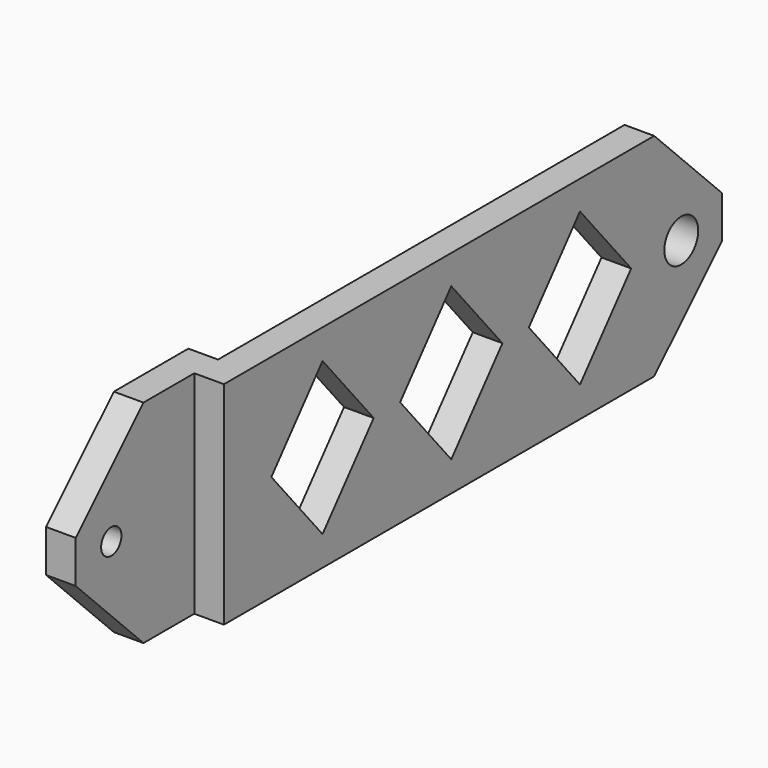
from build123d import *

# Parameters (mm, degrees)
F1_DEPTH = 50
F2_R     = 3
F2_R_2   = 5
F3_DEPTH = 25
F5_DEPTH = 25
F6_SIZE2 = 20
F6_SIZE  = 20


with BuildPart() as f1:
    # F0 (on Top) → F1 (new body)
    with BuildSketch(Plane.XY):
        Polygon((-14, 7), (-14, -35), (-7, -35), (-7, 0), (0, 0), (0, 147), (-7, 147), (-7, 7), align=None)
    extrude(amount=F1_DEPTH)

    # F2 (on Right) → F3 (cut)
    with BuildSketch(Plane.YZ):
        with Locations((-24.5, 25)):
            Circle(F2_R)
        with Locations((135, 25)):
            Circle(F2_R_2)
    extrude(amount=-F3_DEPTH, mode=Mode.SUBTRACT)

    # F4 (on face) → F5 (cut)
    with BuildSketch(Plane(origin=(-7, 0, 0), x_dir=(0, -1, 0), z_dir=(-1, 0, 0))):
        Polygon((-89.999746, 25.19642), (-105.10354, 43.19642), (-120.207333, 25.19642), (-105.10354, 7.19642), align=None)
        Polygon((-51.999873, 25.09821), (-67.103666, 43.09821), (-82.20746, 25.09821), (-67.103666, 7.09821), align=None)
        Polygon((-44.207587, 25), (-29.103793, 7), (-14, 25), (-29.103793, 43), align=None)
    extrude(amount=-F5_DEPTH, mode=Mode.SUBTRACT)

    # F6
    f6_edges = [f1.edges().sort_by_distance(p)[0] for p in [
        (-3.5, 147, 50),
        (-3.5, 147, 0),
        (-10.5, -35, 50),
        (-10.5, -35, 0),
    ]]
    chamfer(f6_edges, length=F6_SIZE, length2=F6_SIZE2)


solid = f1.part
